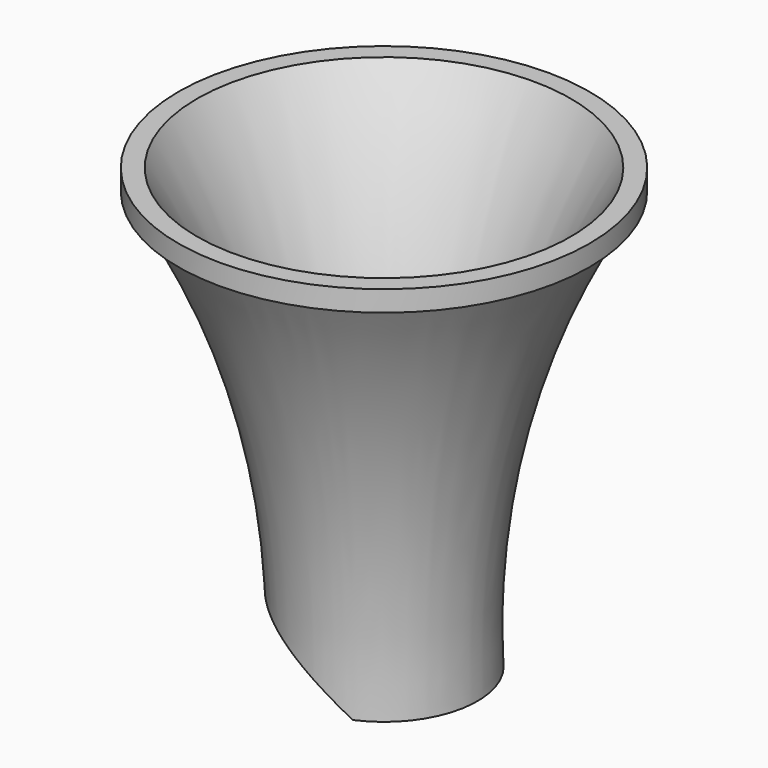
from build123d import *

# Parameters (mm, degrees)
F3_DEPTH = 25


with BuildPart() as f1:
    # F0 (on Front) → F1 (revolve)
    with BuildSketch(Plane.XZ):
        with BuildLine():
            ThreePointArc((-20, -112), (-26.177454, -50.974923), (-50, 5.546818))
            Line((-50, 5.546818), (-55, 5.546818))
            Line((-55, 5.546818), (-55, 0))
            Line((-55, 0), (-52.5, 0))
            ThreePointArc((-52.5, 0), (-30.570332, -53.991599), (-25, -112))
            Line((-25, -112), (-20, -112))
        make_face()
    revolve(axis=Axis((0, 0, -39.086943), (0, 0, -1)))

    # F2 (on Front) → F3 (cut, symmetric)
    with BuildSketch(Plane.XZ):
        with BuildLine():
            Line((-25, -112), (10, -112))
            ThreePointArc((10, -112), (-6.368844, -100.01458), (-25.00633, -92))
            Line((-25.00633, -92), (-25, -112))
        make_face()
    extrude(amount=F3_DEPTH, both=True, mode=Mode.SUBTRACT)


solid = f1.part
